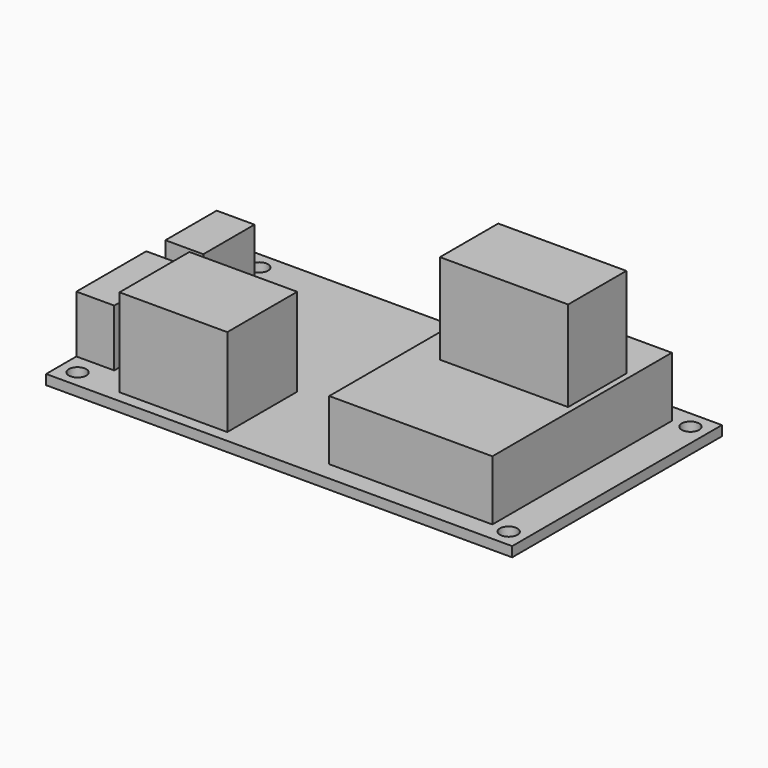
from build123d import *

# Parameters (mm, degrees)
SKETCH_W                  = 80
SKETCH_H                  = 45
PAD_DEPTH                 = 1.7
SKETCH001_W               = 6.5
SKETCH001_H               = 11
PAD001_DEPTH              = 11.5
SKETCH002_W               = 6.5
SKETCH002_H               = 15
PAD002_DEPTH              = 11.5
SKETCH003_W               = 18.5
SKETCH003_H               = 15
PAD003_DEPTH              = 16.8
CYLINDER_R                = 1.5
CYLINDER_DEPTH            = 10
CYLINDER_MIRRORED_2_R     = 1.5
CYLINDER_MIRRORED_2_DEPTH = 10
SKETCH034_W               = 28
SKETCH034_H               = 38.5
PAD017_DEPTH              = 12
SKETCH035_W               = 22
SKETCH035_H               = 12.5
PAD018_DEPTH              = 15.5


with BuildPart() as part:
    # Sketch → Pad (new body)
    with BuildSketch(Plane.XY):
        Rectangle(SKETCH_W, SKETCH_H)
    extrude(amount=PAD_DEPTH)

    # Sketch001 → Pad001 (join)
    with BuildSketch(Plane.XY):
        with Locations((-36.75, 8.6)):
            Rectangle(SKETCH001_W, SKETCH001_H)
    extrude(amount=PAD001_DEPTH)

    # Sketch002 → Pad002 (join)
    with BuildSketch(Plane.XY):
        with Locations((-36.75, -8.5)):
            Rectangle(SKETCH002_W, SKETCH002_H)
    extrude(amount=PAD002_DEPTH)

    # Sketch003 → Pad003 (join)
    with BuildSketch(Plane.XY):
        with Locations((-19.75, -13)):
            Rectangle(SKETCH003_W, SKETCH003_H)
    extrude(amount=PAD003_DEPTH)

    # Cylinder → Cylinder (cut)
    with BuildSketch(Plane(origin=(37, 19.5, 0), x_dir=(1, 0, 0), z_dir=(0, 0, 1))):
        Circle(CYLINDER_R)
    cylinder = extrude(amount=CYLINDER_DEPTH, mode=Mode.SUBTRACT)

    # Cylinder Mirrored 2 → Cylinder Mirrored 2 (cut)
    with BuildSketch(Plane(origin=(-37, 19.5, 0), x_dir=(-1, 0, 0), z_dir=(0, 0, -1))):
        Circle(CYLINDER_MIRRORED_2_R)
    cylinder_mirrored_2 = extrude(amount=-CYLINDER_MIRRORED_2_DEPTH, mode=Mode.SUBTRACT)

    # Mirrored001: Cylinder, Cylinder Mirrored 2 across XZ
    add(cylinder.mirror(Plane.XZ), mode=Mode.SUBTRACT)
    add(cylinder_mirrored_2.mirror(Plane.XZ), mode=Mode.SUBTRACT)

    # Sketch034 → Pad017 (join)
    with BuildSketch(Plane.XY):
        with Locations((20, 0)):
            Rectangle(SKETCH034_W, SKETCH034_H)
    extrude(amount=PAD017_DEPTH)

    with BuildSketch(Plane(origin=(22, 4.5, 12), x_dir=(-1, 0, 0), z_dir=(0, 0, -1))):
        Rectangle(SKETCH035_W, SKETCH035_H)
    extrude(amount=-PAD018_DEPTH)


solid = part.part
